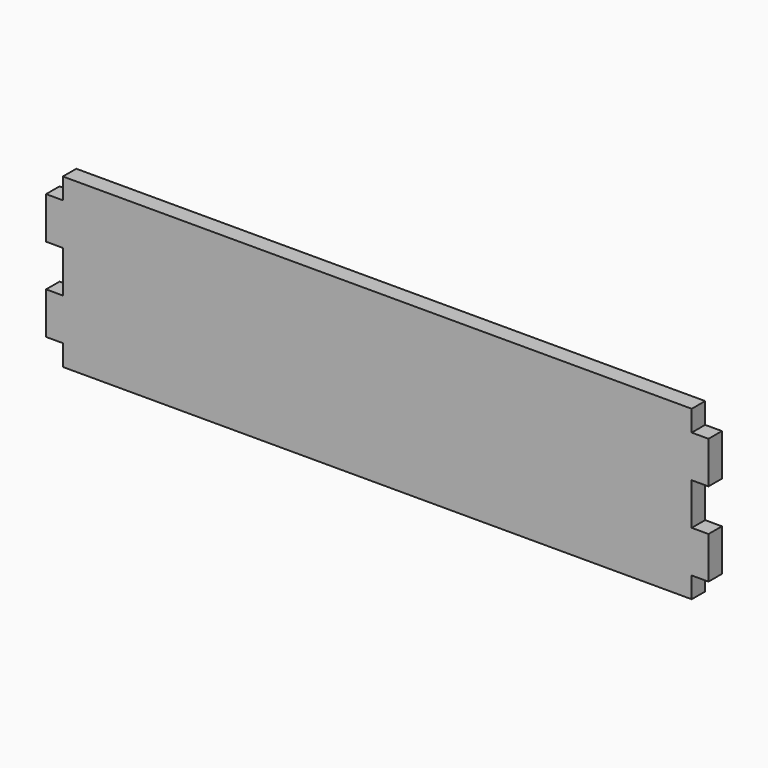
from build123d import *

# Parameters (mm, degrees)
F1_DEPTH = 4


with BuildPart() as f1:
    # F0 (on Front) → F1 (new body)
    with BuildSketch(Plane.XZ):
        Polygon((75, 15), (75, 20), (0, 20), (-75, 20), (-75, 15), (-79, 15), (-79, 5), (-75, 5), (-75, -5), (-79, -5), (-79, -15), (-75, -15), (-75, -20), (75, -20), (75, -15), (79, -15), (79, -5), (75, -5), (75, 5), (79, 5), (79, 15), align=None)
    extrude(amount=F1_DEPTH)


solid = f1.part
